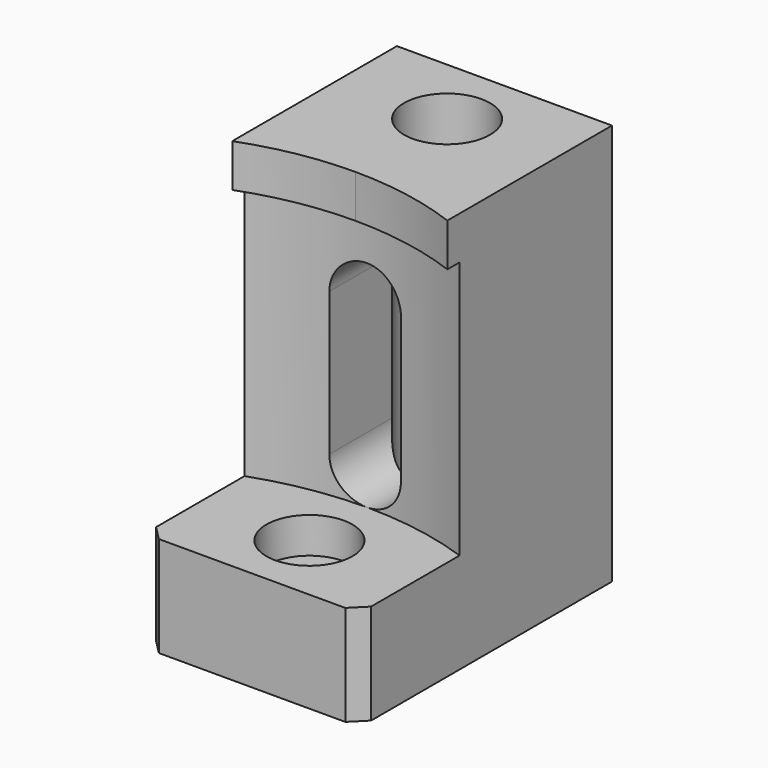
from build123d import *

# Parameters (mm, degrees)
F0_W      = 15
F0_H      = 22
F1_DEPTH  = 28
F3_DEPTH  = 3
F4_R      = 22.5
F5_DEPTH  = 18
F7_DEPTH  = 12.140320325
F8_R      = 2.5
F8_R_2    = 1.75
F9_DEPTH  = 2.1
F10_DEPTH = 7.7156429929
F11_R     = 3
F11_R_2   = 1.75
F12_DEPTH = 2.5
F13_R     = 3
F14_DEPTH = 23.5
F15_SIZE  = 1


with BuildPart() as f1:
    # F0 (on Top) → F1 (new body)
    with BuildSketch(Plane.XY):
        Rectangle(F0_W, F0_H)
    extrude(amount=F1_DEPTH)

    # F2 (on face) → F3 (cut)
    with BuildSketch(Plane.XY.offset(28)):
        with BuildLine():
            Line((-7.5, -11), (-7.5, -3.3505583204))
            ThreePointArc((-7.5, -3.3505583204), (-12.2678441464, -41.156443583), (21.5, -23.5))
            ThreePointArc((21.5, -23.5), (17.656443583, -11.2321558536), (7.5, -3.3505583204))
            Line((7.5, -3.3505583204), (7.5, -11))
            Line((7.5, -11), (-7.5, -11))
        make_face()
        with BuildLine():
            ThreePointArc((7.5, -3.3505583204), (3.8103152027, -2.3403332244), (0, -2))
            ThreePointArc((0, -2), (-3.8103152027, -2.3403332244), (-7.5, -3.3505583204))
            Line((-7.5, -3.3505583204), (-7.5, -11))
            Line((-7.5, -11), (7.5, -11))
            Line((7.5, -11), (7.5, -3.3505583204))
        make_face()
    extrude(amount=-F3_DEPTH, mode=Mode.SUBTRACT)

    # F4 (on face) → F5 (cut)
    with BuildSketch(Plane.XY.offset(25)):
        with Locations((0, -23.5)):
            Circle(F4_R)
    extrude(amount=-F5_DEPTH, mode=Mode.SUBTRACT)

    # F6 (on face) → F7 (cut, through all)
    with BuildSketch(Plane(origin=(0, 11, 0), x_dir=(-1, 0, 0), z_dir=(0, 1, 0))):
        with BuildLine():
            Line((-2.5, 19.5), (-2.5, 9.5))
            ThreePointArc((-2.5, 9.5), (0, 7), (2.5, 9.5))
            Line((2.5, 9.5), (2.5, 19.5))
            ThreePointArc((2.5, 19.5), (0, 22), (-2.5, 19.5))
        make_face()
    extrude(amount=-F7_DEPTH, mode=Mode.SUBTRACT)

    # F8 (on face) → F9 (cut)
    with BuildSketch(Plane(origin=(0, 0, 0), x_dir=(1, 0, 0), z_dir=(0, 0, -1))):
        with Locations((0, 6)):
            Circle(F8_R)
        with Locations((0, 6)):
            Circle(F8_R_2, mode=Mode.SUBTRACT)
        with Locations((0, -6)):
            Circle(F8_R)
        with Locations((0, -6)):
            Circle(F8_R_2, mode=Mode.SUBTRACT)
    extrude(amount=-F9_DEPTH, mode=Mode.SUBTRACT)

    # F10 (cut, through all): faces of the model
    f10_faces = [f1.faces().sort_by_distance(p)[0] for p in [
        (0, 6, 0),
        (0, -6, 0),
    ]]
    extrude(f10_faces, amount=-F10_DEPTH, mode=Mode.SUBTRACT)

    # F11 (on face) → F12 (cut)
    with BuildSketch(Plane.XY.offset(7)):
        with Locations((0, -6)):
            Circle(F11_R)
        with Locations((0, -6)):
            Circle(F11_R_2, mode=Mode.SUBTRACT)
    extrude(amount=-F12_DEPTH, mode=Mode.SUBTRACT)

    # F13 (on face) → F14 (cut)
    with BuildSketch(Plane.XY.offset(28)):
        with Locations((0, 6)):
            Circle(F13_R)
    extrude(amount=-F14_DEPTH, mode=Mode.SUBTRACT)

    # F15
    f15_edges = [f1.edges().sort_by_distance(p)[0] for p in [
        (7.5, -11, 3.5),
        (-7.5, -11, 3.5),
    ]]
    chamfer(f15_edges, length=F15_SIZE)


solid = f1.part
